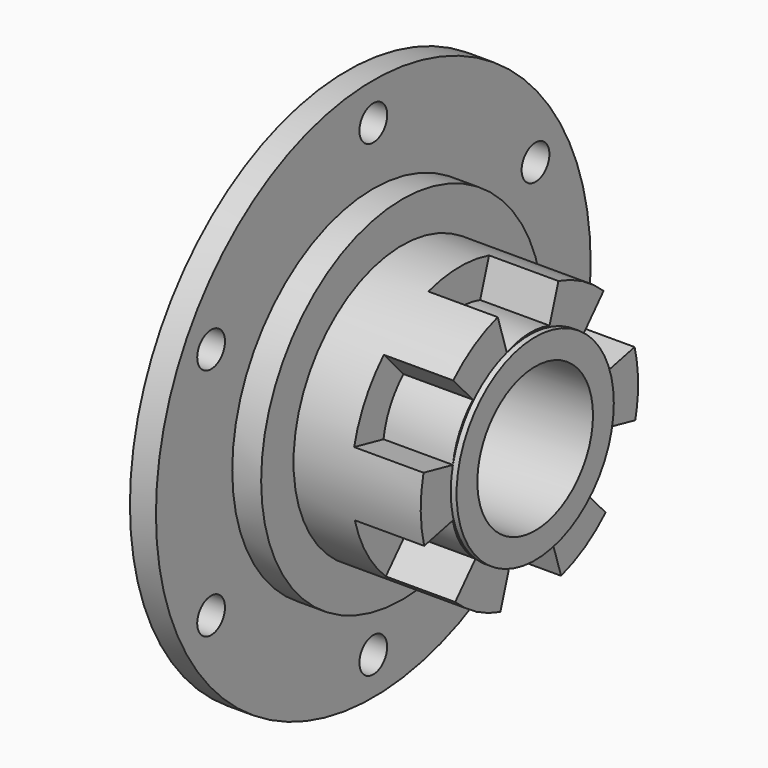
from build123d import *

# Parameters (mm, degrees)
SKETCH002_R           = 3
POCKET_DEPTH          = 283.449725
POLARPATTERN_COUNT    = 6
POCKET001_DEPTH       = 5
POCKET002_DEPTH       = 5
POCKET003_DEPTH       = 5
POCKET004_DEPTH       = 13
POCKET005_DEPTH       = 13
POLARPATTERN001_COUNT = 6


with BuildPart() as part:
    # Sketch → Revolution (revolve)
    with BuildSketch(Plane.XY):
        Polygon((68.911188, 34), (68.911188, 31.5), (76.544998, 27.940296), (76.544998, 14.5), (81.044998, 14.5), (81.044998, 12.5), (104.911188, 12.5), (104.911188, 17), (103.911188, 17), (103.911188, 23.5), (81.911188, 23.5), (81.911188, 30.5), (76.911188, 30.5), (76.911188, 47), (72.411188, 47), (72.411188, 34), align=None)
    revolve(axis=Axis((0, 0, 0), (1, 0, 0)))

    # Sketch002 (on Face13 of Revolution) → Pocket (cut, through all)
    with BuildSketch(Plane.YZ.offset(76.911188)):
        with Locations((0, 40.5)):
            Circle(SKETCH002_R)
    pocket = extrude(amount=-POCKET_DEPTH, mode=Mode.SUBTRACT)

    # PolarPattern: Pocket ×6 about axis
    polarpattern_axis = Axis((76.911188, 0, 0), (1, 0, 0))
    for i in range(1, POLARPATTERN_COUNT):
        add(pocket.rotate(polarpattern_axis, i * 360 / POLARPATTERN_COUNT), mode=Mode.SUBTRACT)

    # Sketch006 (on Face19 of PolarPattern) → Pocket001 (cut)
    with BuildSketch(Plane.YZ.offset(104.911188)):
        with BuildLine():
            Line((-4.87718, 16.285365), (-6.849063, 22.479776))
            ThreePointArc((6.271238, 22.647772), (-0.30141, 23.53977), (-6.849063, 22.479776))
            Line((6.271238, 22.647772), (4.359747, 16.63002))
            ThreePointArc((4.359747, 16.63002), (-0.288728, 17.262036), (-4.87718, 16.285365))
        make_face()
    extrude(amount=-POCKET001_DEPTH, mode=Mode.SUBTRACT)

    # Sketch006 (on Face19 of PolarPattern) → Pocket002 (cut)
    with BuildSketch(Plane.YZ.offset(104.911188)):
        with BuildLine():
            Line((-4.87718, 16.285365), (-6.849063, 22.479776))
            ThreePointArc((6.271238, 22.647772), (-0.30141, 23.53977), (-6.849063, 22.479776))
            Line((6.271238, 22.647772), (4.359747, 16.63002))
            ThreePointArc((4.359747, 16.63002), (-0.288728, 17.262036), (-4.87718, 16.285365))
        make_face()
    extrude(amount=-POCKET002_DEPTH, mode=Mode.SUBTRACT)

    # Sketch006 (on Face19 of PolarPattern) → Pocket003 (cut)
    with BuildSketch(Plane.YZ.offset(104.911188)):
        with BuildLine():
            Line((-4.87718, 16.285365), (-6.849063, 22.479776))
            ThreePointArc((6.271238, 22.647772), (-0.30141, 23.53977), (-6.849063, 22.479776))
            Line((6.271238, 22.647772), (4.359747, 16.63002))
            ThreePointArc((4.359747, 16.63002), (-0.288728, 17.262036), (-4.87718, 16.285365))
        make_face()
    extrude(amount=-POCKET003_DEPTH, mode=Mode.SUBTRACT)

    # Sketch006 (on Face19 of PolarPattern) → Pocket004 (cut)
    with BuildSketch(Plane.YZ.offset(104.911188)):
        with BuildLine():
            Line((-4.87718, 16.285365), (-6.849063, 22.479776))
            ThreePointArc((6.271238, 22.647772), (-0.30141, 23.53977), (-6.849063, 22.479776))
            Line((6.271238, 22.647772), (4.359747, 16.63002))
            ThreePointArc((4.359747, 16.63002), (-0.288728, 17.262036), (-4.87718, 16.285365))
        make_face()
    extrude(amount=-POCKET004_DEPTH, mode=Mode.SUBTRACT)

    # Sketch006 (on Face19 of PolarPattern) → Pocket005 (cut)
    with BuildSketch(Plane.YZ.offset(104.911188)):
        with BuildLine():
            Line((-4.87718, 16.285365), (-6.849063, 22.479776))
            ThreePointArc((6.271238, 22.647772), (-0.30141, 23.53977), (-6.849063, 22.479776))
            Line((6.271238, 22.647772), (4.359747, 16.63002))
            ThreePointArc((4.359747, 16.63002), (-0.288728, 17.262036), (-4.87718, 16.285365))
        make_face()
    pocket005 = extrude(amount=-POCKET005_DEPTH, mode=Mode.SUBTRACT)

    # PolarPattern001: Pocket005 ×6 about axis
    polarpattern001_axis = Axis((104.911188, 0, 0), (1, 0, 0))
    for i in range(1, POLARPATTERN001_COUNT):
        add(pocket005.rotate(polarpattern001_axis, i * 360 / POLARPATTERN001_COUNT), mode=Mode.SUBTRACT)


solid = part.part
